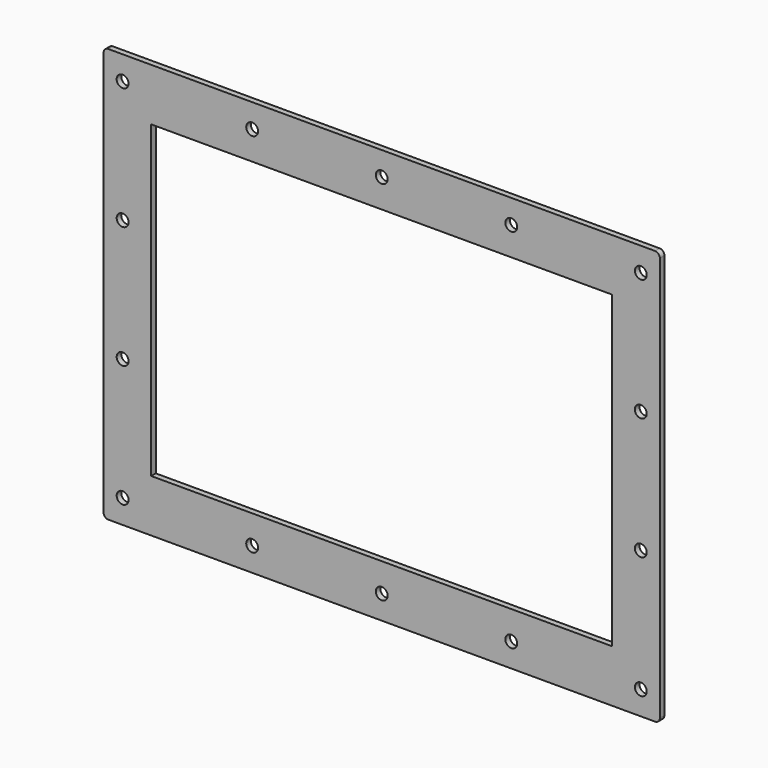
from build123d import *

# Parameters (mm, degrees)
F0_W     = 484
F0_H     = 325
F1_DEPTH = 6
F3_D     = 12.5


with BuildPart() as f1:
    # F0 (on Front) → F1 (new body)
    with BuildSketch(Plane.XZ):
        with BuildLine():
            Line((-287, -217.5), (287, -217.5))
            ThreePointArc((287, -217.5), (290.5355339059, -216.0355339059), (292, -212.5))
            Line((292, -212.5), (292, 212.5))
            ThreePointArc((292, 212.5), (290.5355339059, 216.0355339059), (287, 217.5))
            Line((287, 217.5), (-287, 217.5))
            ThreePointArc((-287, 217.5), (-290.5355339059, 216.0355339059), (-292, 212.5))
            Line((-292, 212.5), (-292, -212.5))
            ThreePointArc((-292, -212.5), (-290.5355339059, -216.0355339059), (-287, -217.5))
        make_face()
        Rectangle(F0_W, F0_H, mode=Mode.SUBTRACT)
    extrude(amount=F1_DEPTH)

    # F3 (through all)
    with Locations(Plane(origin=(0, 0, 0), x_dir=(1, 0, 0), z_dir=(0, 1, 0))):
        with Locations((-272, -192.45), (-272, -64.15), (-272, 64.15), (-272, 192.45), (-136, 192.45), (0, 192.45), (272, 192.45), (136, 192.45), (272, -64.15), (272, 64.15), (272, -192.45), (-136, -192.45), (136, -192.45), (0, -192.45)):
            Hole(F3_D / 2)


solid = f1.part
